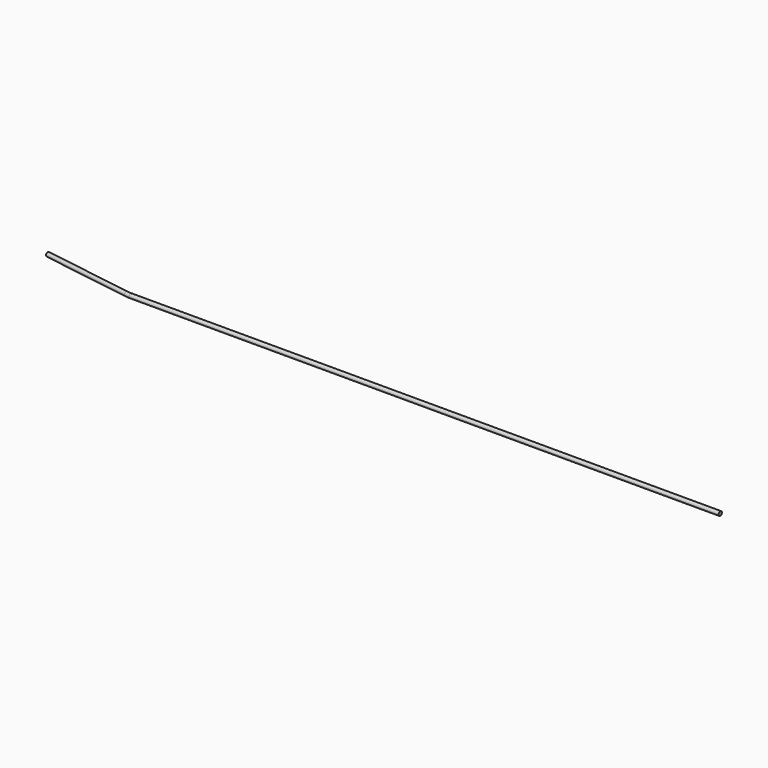
from build123d import *

# Parameters (mm, degrees)
F2_R = 10


with BuildPart() as f3:
    # F3: sweep along a path in F0
    with BuildLine(Plane.XY) as f3_path:
        Line((3350, -220), (461.596932, -220))
        ThreePointArc((461.596932, -220), (450.034504, -219.553704), (438.540881, -218.21747))
        Line((438.540881, -218.21747), (0, -150))
    # F2 (on face) → F3 (sweep)
    with BuildSketch(Plane.YZ.offset(3350)):
        with Locations((-220, 0)):
            Circle(F2_R)
    sweep(path=f3_path.line)


solid = f3.part
